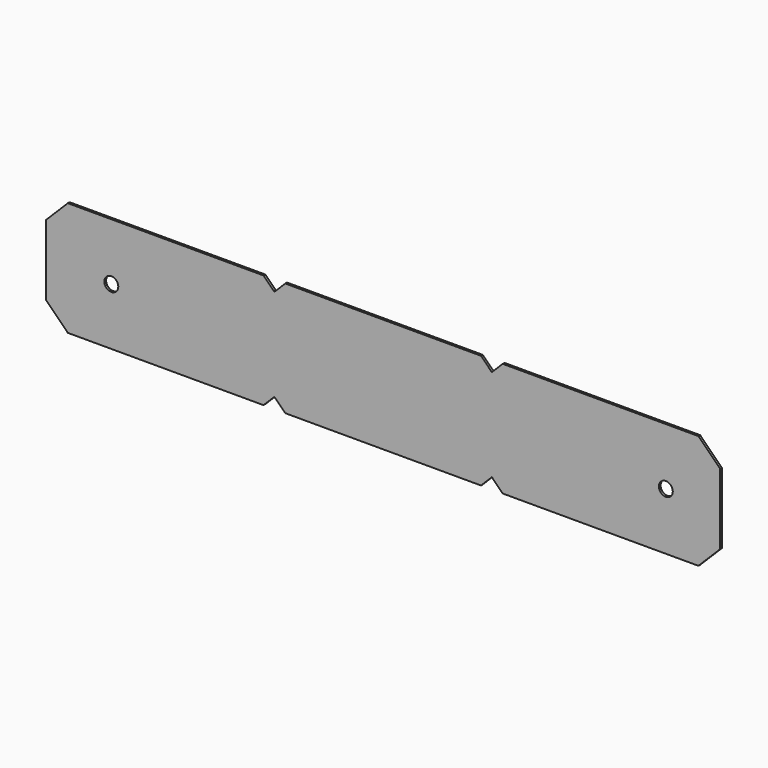
from build123d import *

# Parameters (mm, degrees)
F0_W     = 200
F0_H     = 85
F0_R     = 6.4
F1_DEPTH = 2


with BuildPart() as f1:
    # F0 (on Front) → F1 (new body)
    with BuildSketch(Plane.XZ):
        Polygon((90, -52.5), (100, -42.5), (-100, -42.5), (-90, -52.5), align=None)
        Rectangle(F0_W, F0_H)
        with Locations((200, 0)):
            Rectangle(F0_W, F0_H)
        with Locations((260, 0)):
            Circle(F0_R, mode=Mode.SUBTRACT)
        Polygon((300, -42.5), (100, -42.5), (110, -52.5), (290, -52.5), align=None)
        with Locations((-200, 0)):
            Rectangle(F0_W, F0_H)
        with Locations((-250, 0)):
            Circle(F0_R, mode=Mode.SUBTRACT)
        Polygon((-110, -52.5), (-100, -42.5), (-300, -42.5), (-290, -52.5), align=None)
        Polygon((110, 52.5), (100, 42.5), (300, 42.5), (290, 52.5), align=None)
        Polygon((-100, 42.5), (100, 42.5), (90, 52.5), (-90, 52.5), align=None)
        Polygon((300, 42.5), (300, -42.5), (310, -32.5), (310, 32.5), align=None)
        Polygon((-300, 42.5), (-100, 42.5), (-110, 52.5), (-290, 52.5), align=None)
        Polygon((-310, -32.5), (-300, -42.5), (-300, 42.5), (-310, 32.5), align=None)
    extrude(amount=F1_DEPTH)


solid = f1.part
